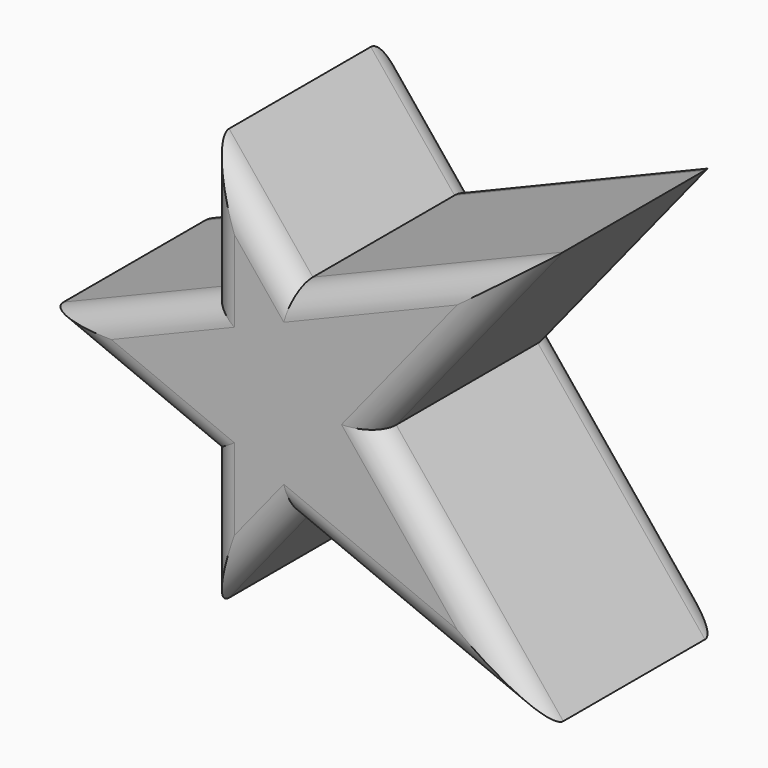
from build123d import *

# Parameters (mm, degrees)
F1_DEPTH = 22.225
F2_R     = 5.08


with BuildPart() as f1:
    # F0 (on Front) → F1 (new body, symmetric)
    with BuildSketch(Plane.XZ):
        Polygon((-0.2670160154, 19.9477417592), (-16.4844337851, 13.2459064213), (-16.4844337851, -13.2459064213), (-0.2670160154, -19.9477417592), (15.87390434, 0), align=None)
        Polygon((-16.4844337851, 13.2459064213), (-48.5375039279, 0), (-16.4844337851, -13.2459064213), align=None)
        Polygon((-16.4844337851, 39.9900227785), (-16.4844337851, 13.2459064213), (-0.2670160154, 19.9477417592), align=None)
        Polygon((48.232242465, 39.9900227785), (-0.2670160154, 19.9477417592), (15.87390434, 0), align=None)
        Polygon((15.87390434, 0), (-0.2670160154, -19.9477417592), (48.232242465, -39.9900227785), align=None)
        Polygon((-0.2670160154, -19.9477417592), (-16.4844337851, -13.2459064213), (-16.4844337851, -39.9900227785), align=None)
    extrude(amount=F1_DEPTH, both=True)

    # F2
    f2_edges = [f1.edges().sort_by_distance(p)[0] for p in [
        (-32.510969, -22.225, -6.622953),
        (-16.484434, -22.225, -26.617965),
        (-8.375725, -22.225, -29.968882),
        (23.982613, -22.225, -29.968882),
        (32.053073, -22.225, -19.995011),
        (32.053073, -22.225, 19.995011),
        (23.982613, -22.225, 29.968882),
        (-8.375725, -22.225, 29.968882),
        (-16.484434, -22.225, 26.617965),
        (-32.510969, -22.225, 6.622953),
        (-32.510969, 22.225, 6.622953),
        (-16.484434, 22.225, 26.617965),
        (-8.375725, 22.225, 29.968882),
        (23.982613, 22.225, 29.968882),
        (32.053073, 22.225, 19.995011),
        (32.053073, 22.225, -19.995011),
        (23.982613, 22.225, -29.968882),
        (-8.375725, 22.225, -29.968882),
        (-16.484434, 22.225, -26.617965),
        (-32.510969, 22.225, -6.622953),
    ]]
    fillet(f2_edges, radius=F2_R)


solid = f1.part
